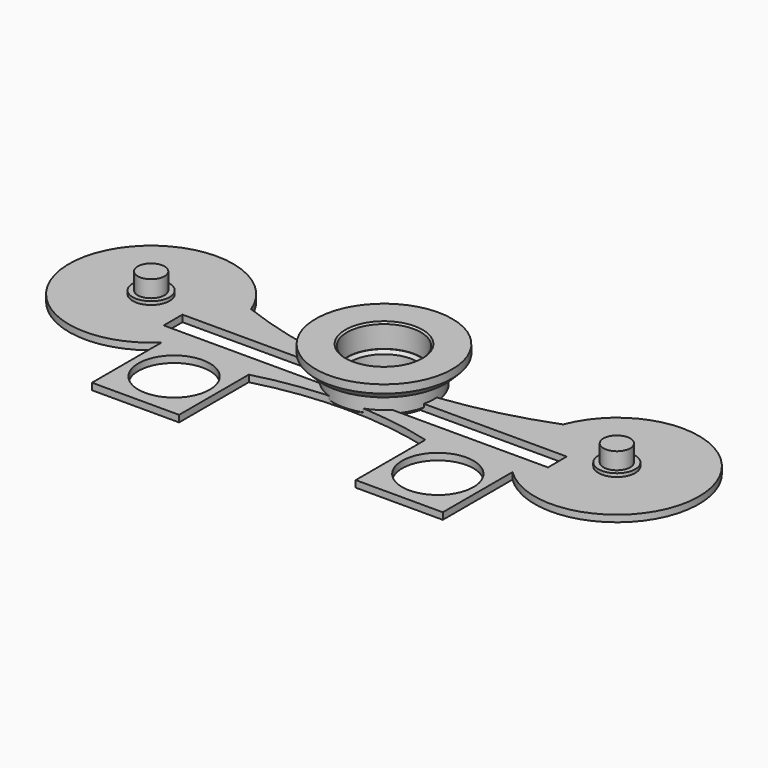
from build123d import *

# Parameters (mm, degrees)
SKETCH_R        = 20.375
PAD_DEPTH       = 11.5
SKETCH001_R     = 11.02
POCKET_DEPTH    = 7
SKETCH002_R     = 22.557979
SKETCH002_R_2   = 15.1
POCKET001_DEPTH = 7
SKETCH003_R     = 10
POCKET002_DEPTH = 11.501
CHAMFER_SIZE    = 2.07
CHAMFER001_SIZE = 0.5
CHAMFER002_SIZE = 0.9
CHAMFER003_SIZE = 1
PAD001_DEPTH    = 2
SKETCH005_R     = 10.65
POCKET003_DEPTH = 2.001
SKETCH006_R     = 5.5
PAD002_DEPTH    = 1
SKETCH007_R     = 4
PAD003_DEPTH    = 6
SKETCH008_W     = 114.707144
SKETCH008_H     = 7
POCKET004_DEPTH = 2.001


with BuildPart() as body:
    # Sketch → Pad (new body)
    with BuildSketch(Plane.XY):
        Circle(SKETCH_R)
    extrude(amount=PAD_DEPTH)

    # Sketch001 (on Face3 of Pad) → Pocket (cut)
    with BuildSketch(Plane.XY.offset(11.5)):
        Circle(SKETCH001_R)
    extrude(amount=-POCKET_DEPTH, mode=Mode.SUBTRACT)

    # Sketch002 (on Face2 of Pocket) → Pocket001 (cut)
    with BuildSketch(Plane(origin=(0, 0, 0), x_dir=(1, 0, 0), z_dir=(0, 0, -1))):
        Circle(SKETCH002_R)
        Circle(SKETCH002_R_2, mode=Mode.SUBTRACT)
    extrude(amount=-POCKET001_DEPTH, mode=Mode.SUBTRACT)

    # Sketch003 → Pocket002 (cut, through all)
    with BuildSketch(Plane(origin=(0, 0, 0), x_dir=(1, 0, 0), z_dir=(0, 0, -1))):
        Circle(SKETCH003_R)
    extrude(amount=-POCKET002_DEPTH, mode=Mode.SUBTRACT)

    # Chamfer
    chamfer_edges = [body.edges().sort_by_distance(p)[0] for p in [
        (-20.375, 0, 7),
    ]]
    chamfer(chamfer_edges, length=CHAMFER_SIZE)

    # Chamfer001
    chamfer001_edges = [body.edges().sort_by_distance(p)[0] for p in [
        (-11.02, 0, 11.5),
    ]]
    chamfer(chamfer001_edges, length=CHAMFER001_SIZE)

    # Chamfer002
    chamfer002_edges = [body.edges().sort_by_distance(p)[0] for p in [
        (-10, 0, 4.5),
    ]]
    chamfer(chamfer002_edges, length=CHAMFER002_SIZE)

    # Chamfer003
    chamfer003_edges = [body.edges().sort_by_distance(p)[0] for p in [
        (-15.1, 0, 0),
    ]]
    chamfer(chamfer003_edges, length=CHAMFER003_SIZE)


with BuildPart() as body001:
    # Sketch004 → Pad001 (new body)
    with BuildSketch(Plane.XY):
        with BuildLine():
            ThreePointArc((-46.569269, 8.627374), (3e-05, 0), (46.56931, 8.627482))
            ThreePointArc((52.353572, -17.5), (93.420811, 5.295736), (46.56931, 8.627482))
            Line((52.353572, -43.5), (52.353572, -17.5))
            Line((26.353572, -43.5), (52.353572, -43.5))
            Line((26.353572, -17.5), (26.353572, -43.5))
            ThreePointArc((26.353572, -17.5), (0, -14.029662), (-26.353572, -17.5))
            Line((-26.353572, -17.5), (-26.353572, -43.5))
            Line((-26.353572, -43.5), (-52.353572, -43.5))
            Line((-52.353572, -43.5), (-52.353572, -17.5))
            ThreePointArc((-46.569269, 8.627374), (-93.420798, 5.295792), (-52.353572, -17.5))
        make_face()
    extrude(amount=PAD001_DEPTH)

    # Sketch005 (on Face12 of Pad001) → Pocket003 (cut, through all)
    with BuildSketch(Plane.XY.offset(2)):
        with Locations((-39.353572, -29.11)):
            Circle(SKETCH005_R)
        with Locations((39.353572, -29.11)):
            Circle(SKETCH005_R)
    extrude(amount=-POCKET003_DEPTH, mode=Mode.SUBTRACT)

    # Sketch006 (on Face5 of Pocket003) → Pad002 (join)
    with BuildSketch(Plane.XY.offset(2)):
        with Locations((-69.5, 0)):
            Circle(SKETCH006_R)
        with Locations((69.5, 0)):
            Circle(SKETCH006_R)
    extrude(amount=PAD002_DEPTH)

    # Sketch007 (on Face5 of Pad002) → Pad003 (join)
    with BuildSketch(Plane.XY.offset(2)):
        with Locations((-69.5, 0)):
            Circle(SKETCH007_R)
        with Locations((69.5, 0)):
            Circle(SKETCH007_R)
    extrude(amount=PAD003_DEPTH)

    # Sketch008 (on Face5 of Pad003) → Pocket004 (cut, through all)
    with BuildSketch(Plane.XY.offset(2)):
        with Locations((0, -7)):
            Rectangle(SKETCH008_W, SKETCH008_H)
    extrude(amount=-POCKET004_DEPTH, mode=Mode.SUBTRACT)


solid = Compound([body.part, body001.part])
